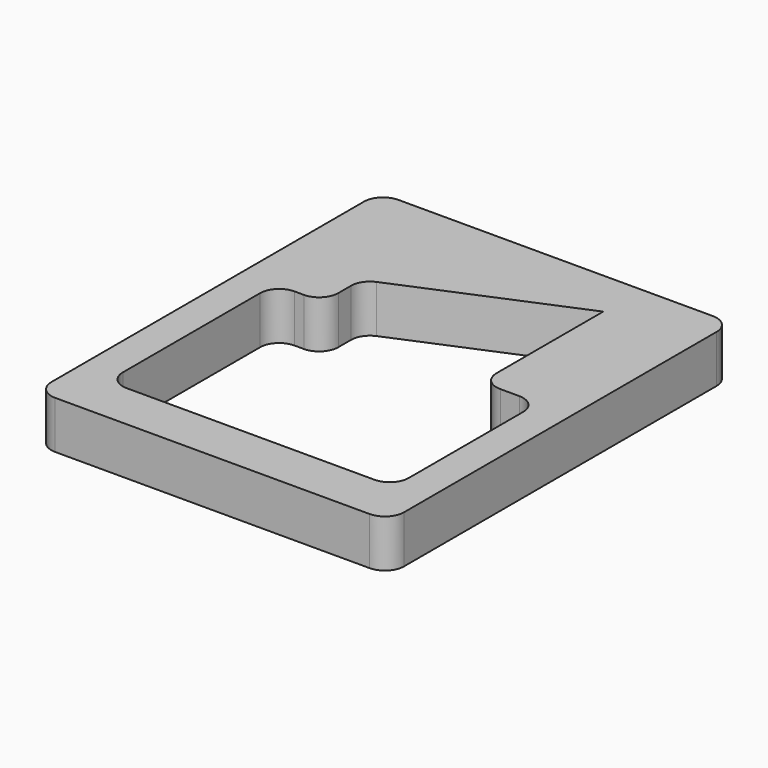
from build123d import *

# Parameters (mm, degrees)
F1_DEPTH = 5


with BuildPart() as f1:
    # F0 (on Top) → F1 (new body)
    with BuildSketch(Plane.XY):
        with BuildLine():
            Line((14.441929, 18), (-18.558071, 18))
            ThreePointArc((-18.558071, 18), (-19.972284, 17.414214), (-20.558071, 16))
            Line((-20.558071, 16), (-20.558071, -25))
            ThreePointArc((-20.558071, -25), (-19.972284, -26.414214), (-18.558071, -27))
            Line((-18.558071, -27), (14.441929, -27))
            ThreePointArc((14.441929, -27), (15.856143, -26.414214), (16.441929, -25))
            Line((16.441929, -25), (16.441929, 16))
            ThreePointArc((16.441929, 16), (15.856143, 17.414214), (14.441929, 18))
        make_face()
        with BuildLine():
            Line((-17.058071, -20), (-17.058071, -2))
            ThreePointArc((-17.058071, -2), (-16.472284, -0.585786), (-15.058071, 0))
            Line((-15.058071, 0), (-14.058071, 0))
            ThreePointArc((-14.058071, 0), (-12.643857, 0.585786), (-12.058071, 2))
            Line((-12.058071, 2), (-12.058071, 3.67205))
            ThreePointArc((-12.058071, 3.67205), (-11.724238, 4.778343), (-10.834185, 5.51532))
            Line((-10.834185, 5.51532), (6.941929, 13))
            Line((6.941929, 13), (6.941929, -1))
            ThreePointArc((6.941929, -1), (7.527716, -2.414214), (8.941929, -3))
            Line((8.941929, -3), (10.941929, -3))
            ThreePointArc((10.941929, -3), (12.356143, -3.585786), (12.941929, -5))
            Line((12.941929, -5), (12.941929, -20))
            ThreePointArc((12.941929, -20), (12.356143, -21.414214), (10.941929, -22))
            Line((10.941929, -22), (-15.058071, -22))
            ThreePointArc((-15.058071, -22), (-16.472284, -21.414214), (-17.058071, -20))
        make_face(mode=Mode.SUBTRACT)
    extrude(amount=F1_DEPTH)


solid = f1.part
